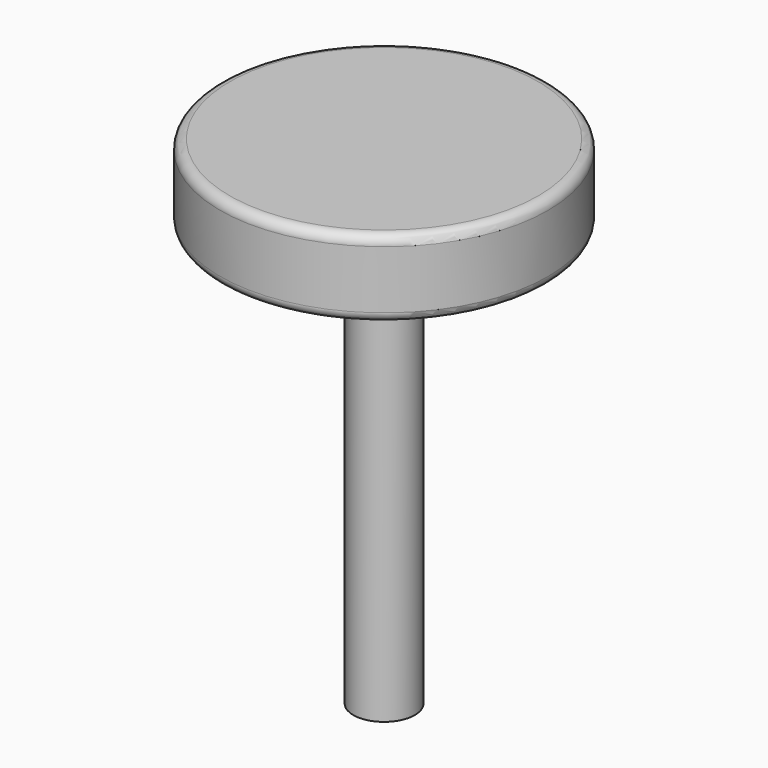
from build123d import *

# Parameters (mm, degrees)
F0_R     = 25.4
F1_DEPTH = 12
F2_R     = 1.5
F3_R     = 4.7625
F4_DEPTH = 8
F5_R     = 4.7625
F6_DEPTH = 65


with BuildPart() as f1:
    # F0 (on Top) → F1 (new body)
    with BuildSketch(Plane.XY):
        Circle(F0_R)
    extrude(amount=F1_DEPTH)

    # F2
    f2_edges = [f1.edges().sort_by_distance(p)[0] for p in [
        (-25.4, 0, 12),
        (-25.4, 0, 0),
    ]]
    fillet(f2_edges, radius=F2_R)

    # F3 (on Top) → F4 (cut)
    with BuildSketch(Plane.XY):
        with Locations((12, 0)):
            Circle(F3_R)
    extrude(amount=F4_DEPTH, mode=Mode.SUBTRACT)


with BuildPart() as f6:
    # F5 (on Top) → F6 (new body)
    with BuildSketch(Plane.XY):
        Circle(F5_R)
    extrude(amount=-F6_DEPTH)


solid = Compound([f1.part, f6.part])
